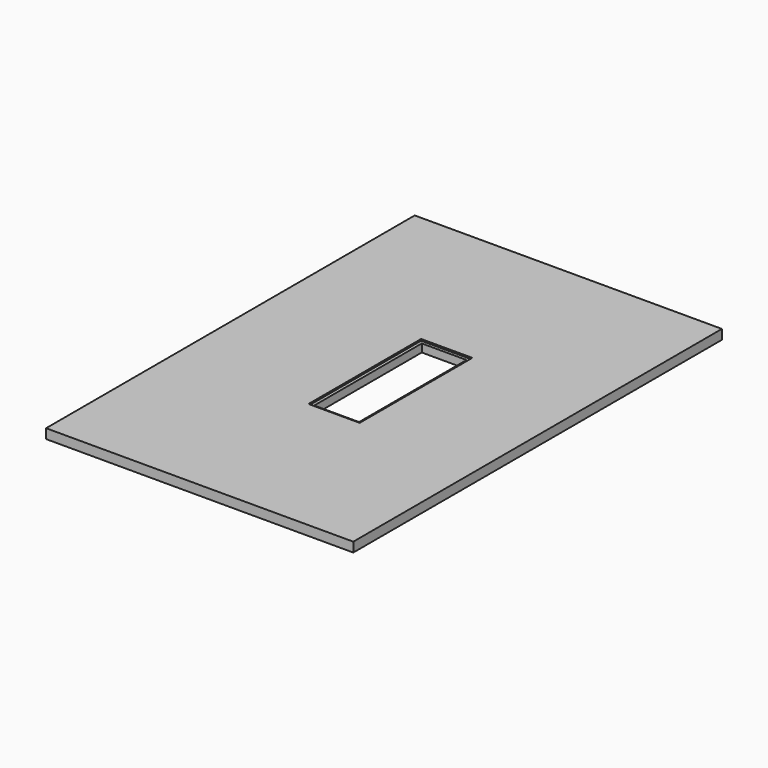
from build123d import *

# Parameters (mm, degrees)
F0_W     = 609.6
F0_H     = 914.4
F1_DEPTH = 19.05
F2_W     = 101.6
F2_H     = 279.4
F3_DEPTH = 3.175
F4_W     = 88.9
F4_H     = 266.7
F5_DEPTH = 25.4


with BuildPart() as f1:
    # F0 (on Top) → F1 (new body)
    with BuildSketch(Plane.XY):
        Rectangle(F0_W, F0_H)
    extrude(amount=F1_DEPTH)

    # F2 (on face) → F3 (cut)
    with BuildSketch(Plane.XY.offset(19.05)):
        with Locations((12.7, 0)):
            Rectangle(F2_W, F2_H)
    extrude(amount=-F3_DEPTH, mode=Mode.SUBTRACT)

    # F4 (on face) → F5 (cut)
    with BuildSketch(Plane.XY.offset(15.875)):
        with Locations((12.7, 0)):
            Rectangle(F4_W, F4_H)
    extrude(amount=-F5_DEPTH, mode=Mode.SUBTRACT)


solid = f1.part
